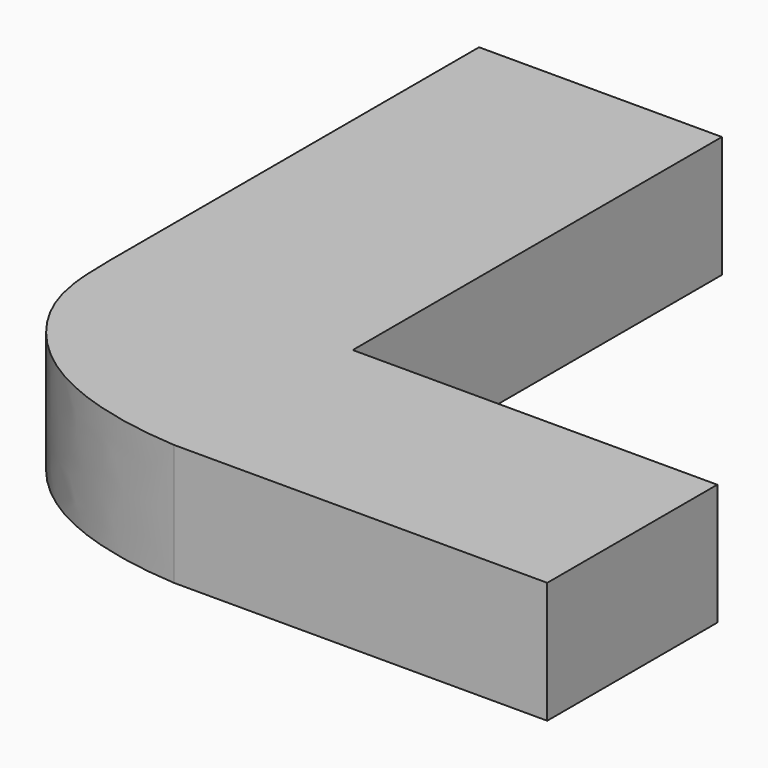
from build123d import *

# Parameters (mm, degrees)
F1_DEPTH = 25.4


with BuildPart() as f1:
    # F0 (on Top) → F1 (new body)
    with BuildSketch(Plane.XY):
        Polygon((13.4889983539, 30.4440044713), (-37.3110016461, 30.4440044713), (-37.3110016461, -66.0759955287), (11.6650466278, -66.0759955287), (13.4889983539, -66.0759955287), align=None)
        with BuildLine():
            Line((11.6650466278, -66.0759955287), (-37.3110016461, -66.0759955287))
            add(Edge.make_bspline(
                [(-37.3110016461, -66.0759955287), (-37.2651945495, -71.5534338079), (-37.1809727906, -83.6761755287), (-20.9960701666, -104.4430950935), (0, -109.7665727139), (11.6650466278, -110.5259955287)],
                knots=[0, 0, 0, 0, 0.2781096202, 0.6101659578, 1, 1, 1, 1], degree=3))
            Line((11.6650466278, -110.5259955287), (11.6650466278, -66.0759955287))
        make_face()
        Polygon((89.7292736756, -66.0759955287), (13.4889983539, -66.0759955287), (11.6650466278, -66.0759955287), (11.6650466278, -110.5259955287), (89.7292736756, -110.5259955287), align=None)
    extrude(amount=F1_DEPTH)


solid = f1.part
